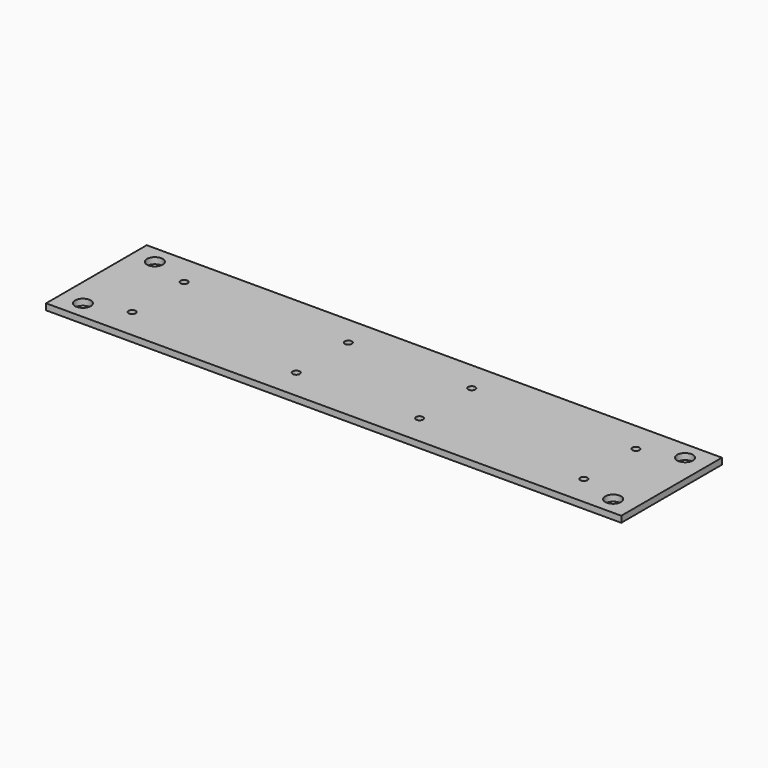
from build123d import *

# Parameters (mm, degrees)
SKETCH_W   = 203.2
SKETCH_H   = 44.45
SKETCH_R   = 2.775
SKETCH_R_2 = 1.25
PAD_DEPTH  = 2.2


with BuildPart() as part:
    # Sketch → Pad (new body)
    with BuildSketch(Plane.XY):
        Rectangle(SKETCH_W, SKETCH_H)
        with Locations((-93.6625, 15.875)):
            Circle(SKETCH_R, mode=Mode.SUBTRACT)
        with Locations((-93.6625, -15.875)):
            Circle(SKETCH_R, mode=Mode.SUBTRACT)
        with Locations((93.6625, 15.875)):
            Circle(SKETCH_R, mode=Mode.SUBTRACT)
        with Locations((93.6625, -15.875)):
            Circle(SKETCH_R, mode=Mode.SUBTRACT)
        with Locations((-79.8, 11.5)):
            Circle(SKETCH_R_2, mode=Mode.SUBTRACT)
        with Locations((-79.8, -11.5)):
            Circle(SKETCH_R_2, mode=Mode.SUBTRACT)
        with Locations((-21.8, 11.5)):
            Circle(SKETCH_R_2, mode=Mode.SUBTRACT)
        with Locations((-21.8, -11.5)):
            Circle(SKETCH_R_2, mode=Mode.SUBTRACT)
        with Locations((21.8, 11.5)):
            Circle(SKETCH_R_2, mode=Mode.SUBTRACT)
        with Locations((21.8, -11.5)):
            Circle(SKETCH_R_2, mode=Mode.SUBTRACT)
        with Locations((79.8, 11.5)):
            Circle(SKETCH_R_2, mode=Mode.SUBTRACT)
        with Locations((79.8, -11.5)):
            Circle(SKETCH_R_2, mode=Mode.SUBTRACT)
    extrude(amount=PAD_DEPTH)


solid = part.part
